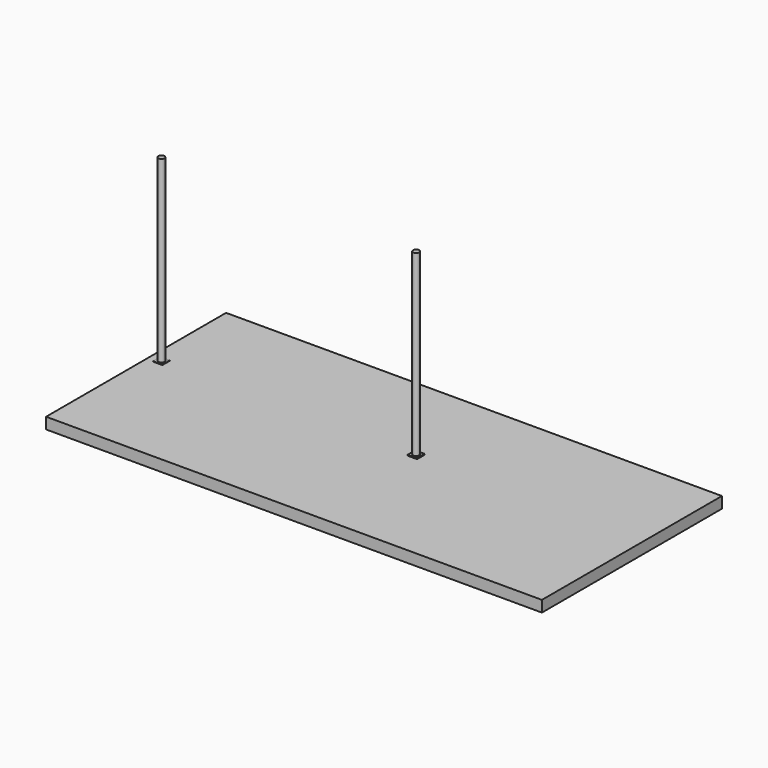
from build123d import *

# Parameters (mm, degrees)
F0_W     = 13462
F0_H     = 6108.7
F1_DEPTH = 304.8
F2_W     = 254
F2_H     = 254
F2_R     = 82.55
F3_DEPTH = 12.7
F4_DEPTH = 25.4
F5_DEPTH = 4876.8
F6_DEPTH = 4876.8


with BuildPart() as f1:
    # F0 (on Top) → F1 (new body)
    with BuildSketch(Plane.XY):
        with Locations((6731, 3054.35)):
            Rectangle(F0_W, F0_H)
    extrude(amount=-F1_DEPTH)

    # F2 (on face) → F3 (join)
    with BuildSketch(Plane.XY):
        with Locations((317.5, 3517.9)):
            Rectangle(F2_W, F2_H)
        with Locations((317.5, 3517.9)):
            Circle(F2_R, mode=Mode.SUBTRACT)
    extrude(amount=F3_DEPTH)

    # F2 (on face) → F4 (join)
    with BuildSketch(Plane.XY):
        with Locations((7232.65, 3517.9)):
            Rectangle(F2_W, F2_H)
        with Locations((7232.65, 3517.9)):
            Circle(F2_R, mode=Mode.SUBTRACT)
    extrude(amount=F4_DEPTH)

    # F2 (on face) → F5 (join)
    with BuildSketch(Plane.XY):
        with Locations((317.5, 3517.9)):
            Circle(F2_R)
    extrude(amount=F5_DEPTH)

    # F2 (on face) → F6 (join)
    with BuildSketch(Plane.XY):
        with Locations((7232.65, 3517.9)):
            Circle(F2_R)
    extrude(amount=F6_DEPTH)


solid = f1.part
